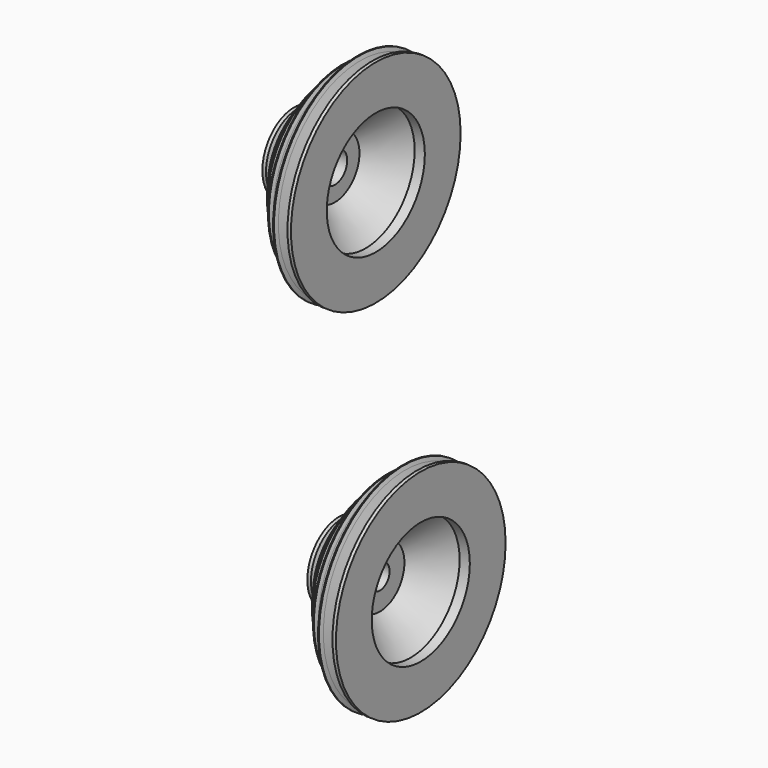
from build123d import *


with BuildPart() as f1:
    # F0 (on Top) → F1 (revolve)
    with BuildSketch(Plane.XY):
        Polygon((0.832808, 31), (0, 31), (-2, 31), (-2, 9.5), (30, 9.5), (30, 24), (54, 48), (62, 48), (62, 83), (60, 83), (59.282983, 83), (58.25, 80), (54.806724, 70), (53.193276, 70), (49.75, 80), (48.717017, 83), (48, 83), (48, 73), (47.282983, 73), (46.25, 70), (42.806724, 60), (41.193276, 60), (37.75, 70), (36.717017, 73), (36, 73), (36, 59), (35.282983, 59), (34.25, 56), (30.806724, 46), (29.193276, 46), (25.75, 56), (24.717017, 59), (24, 59), (24, 43), (23.224759, 43), (22.25, 40), (19.000803, 30), (16.999197, 30), (13.75, 40), (12.775241, 43), (12, 43), (12, 31), (11.167192, 31), (10.25, 28), (7.192693, 18), (4.807307, 18), (1.75, 28), align=None)
    revolve(axis=Axis((15, 0, 0), (1, 0, 0)))


with BuildPart() as f4:
    # F3 (on offset) → F4 (revolve)
    with BuildSketch(Plane.XY.offset(300)):
        Polygon((0.832808, -13.014706), (0, -13.014706), (-2, -13.014706), (-2, -32.014706), (30, -32.014706), (30, -20.014706), (54, 3.985294), (62, 3.985294), (62, 38.985294), (60, 38.985294), (59.282983, 38.985294), (58.25, 35.985294), (54.806724, 25.985294), (53.193276, 25.985294), (49.75, 35.985294), (48.717017, 38.985294), (48, 38.985294), (48, 28.985294), (47.282983, 28.985294), (46.25, 25.985294), (42.806724, 15.985294), (41.193276, 15.985294), (37.75, 25.985294), (36.717017, 28.985294), (36, 28.985294), (36, 14.985294), (35.282983, 14.985294), (34.25, 11.985294), (30.806724, 1.985294), (29.193276, 1.985294), (25.75, 11.985294), (24.717017, 14.985294), (24, 14.985294), (24, -1.014706), (23.224759, -1.014706), (22.25, -4.014706), (19.000803, -14.014706), (16.999197, -14.014706), (13.75, -4.014706), (12.775241, -1.014706), (12, -1.014706), (12, -13.014706), (11.167192, -13.014706), (10.25, -16.014706), (7.192693, -26.014706), (4.807307, -26.014706), (1.75, -16.014706), align=None)
    revolve(axis=Axis((15, -44.014706, 300), (1, 0, 0)))


solid = Compound([f1.part, f4.part])
